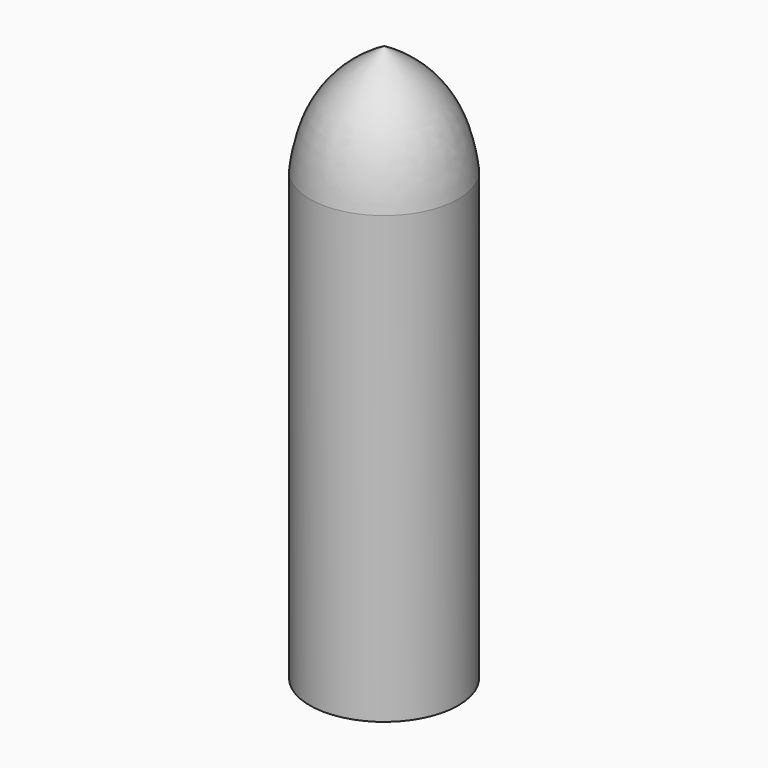
from build123d import *

# Parameters (mm, degrees)
F0_R     = 2.5
F1_DEPTH = 15


with BuildPart() as f1:
    # F0 (on Top) → F1 (new body)
    with BuildSketch(Plane.XY):
        Circle(F0_R)
    extrude(amount=F1_DEPTH)

    # F3 (on Right) → F4 (revolve)
    with BuildSketch(Plane.YZ):
        with BuildLine():
            add(Edge.make_bspline(
                [(-2.5, 15), (-2.273052, 16.933965), (-1.483905, 17.878123), (0, 18.721409)],
                knots=[0, 0, 0, 0, 4.483178, 4.483178, 4.483178, 4.483178], degree=3))
            Line((-2.5, 15), (0, 15))
            Line((0, 15), (0, 18.721409))
        make_face()
    revolve(axis=Axis((0, 0, 16.860705), (0, 0, -1)))


solid = f1.part
